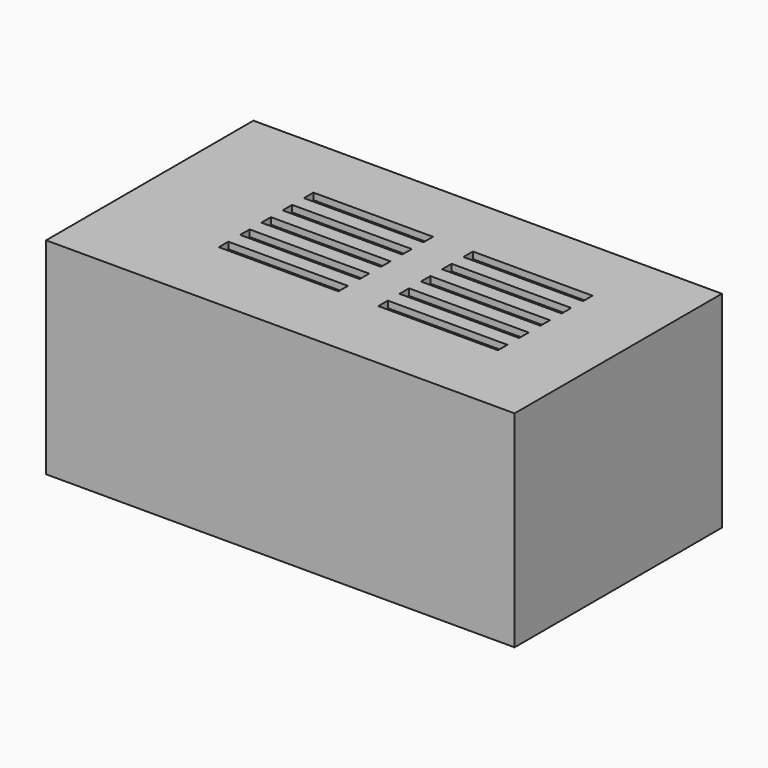
from build123d import *

# Parameters (mm, degrees)
F0_W     = 70.5
F0_H     = 39
F1_DEPTH = 31
F2_W     = 18
F2_H     = 1.793342
F3_DEPTH = 1


with BuildPart() as f1:
    # F0 (on Top) → F1 (new body)
    with BuildSketch(Plane.XY):
        Rectangle(F0_W, F0_H)
    extrude(amount=F1_DEPTH)

    # F2 (on face) → F3 (cut)
    with BuildSketch(Plane.XY.offset(31)):
        with Locations((-9.308642, 8.708106)):
            Rectangle(F2_W, F2_H)
        with Locations((14.691358, 8.708106)):
            Rectangle(F2_W, F2_H)
        with Locations((14.691358, 4.708106)):
            Rectangle(F2_W, F2_H)
        with Locations((-9.308642, 4.708106)):
            Rectangle(F2_W, F2_H)
        with Locations((14.691358, 0.708106)):
            Rectangle(F2_W, F2_H)
        with Locations((-9.308642, 0.708106)):
            Rectangle(F2_W, F2_H)
        with Locations((14.691358, -3.291894)):
            Rectangle(F2_W, F2_H)
        with Locations((-9.308642, -3.291894)):
            Rectangle(F2_W, F2_H)
        with Locations((14.691358, -7.291894)):
            Rectangle(F2_W, F2_H)
        with Locations((-9.308642, -7.291894)):
            Rectangle(F2_W, F2_H)
    extrude(amount=-F3_DEPTH, mode=Mode.SUBTRACT)


solid = f1.part
